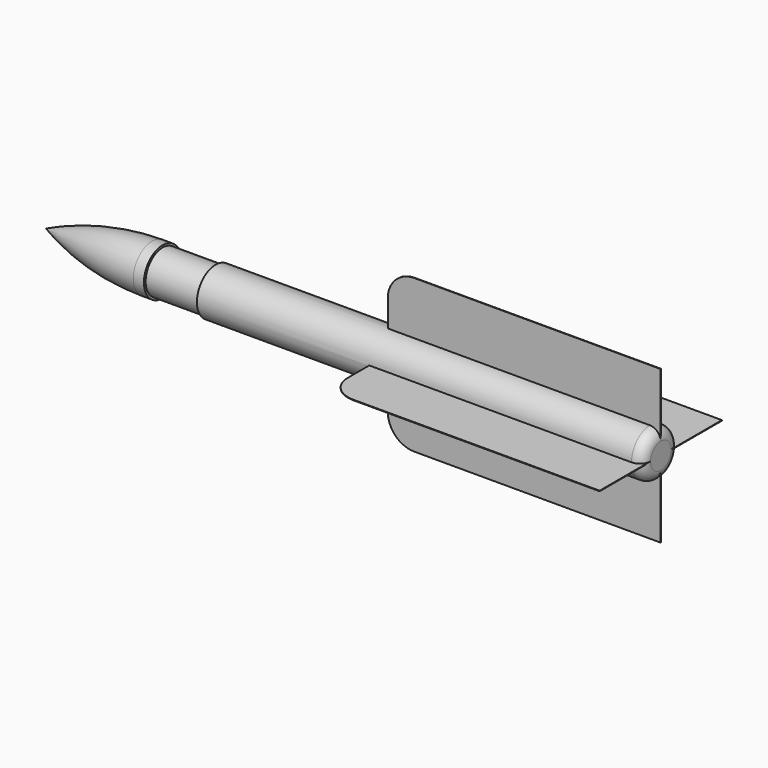
from build123d import *

# Parameters (mm, degrees)
FILLET_R           = 100
SKETCH001_W        = 2574
SKETCH001_H        = 721
PAD_DEPTH          = 2.5
POLARPATTERN_COUNT = 4
FILLET001_R        = 250
SKETCH002_W        = 500
SKETCH002_H        = 20


with BuildPart() as part:
    # Sketch → Revolution (revolve)
    with BuildSketch(Plane.XY):
        with BuildLine():
            Line((-2400, 221), (2400, 221))
            Line((2400, 221), (2400, 0))
            Line((2400, 0), (-2400, 0))
            Line((-3400, 0), (-2400, 0))
            ThreePointArc((-2400, 221), (-2912.064693, 165.091372), (-3400, 0))
        make_face()
    revolve(axis=Axis((0, 0, 0), (1, 0, 0)))

    # Fillet
    fillet_edges = [part.edges().sort_by_distance(p)[0] for p in [
        (2400, -221, 0),
    ]]
    fillet(fillet_edges, radius=FILLET_R)

    # Sketch001 → Pad (new body, symmetric)
    with BuildSketch(Plane.XY):
        with Locations((1113, 360.5)):
            Rectangle(SKETCH001_W, SKETCH001_H)
    pad = extrude(amount=PAD_DEPTH, both=True)

    # PolarPattern: Pad ×4 about axis
    polarpattern_axis = Axis((0, 0, 0), (1, 0, 0))
    for i in range(1, POLARPATTERN_COUNT):
        add(pad.rotate(polarpattern_axis, i * 360 / POLARPATTERN_COUNT))

    # Fillet001
    fillet001_edges = [part.edges().sort_by_distance(p)[0] for p in [
        (-174, 0, 721),
        (-174, 721, 0),
        (-174, -721, 0),
        (-174, 0, -721),
    ]]
    fillet(fillet001_edges, radius=FILLET001_R)

    # Sketch002 → Groove (revolve, cut)
    with BuildSketch(Plane.XY):
        with Locations((-2050, 211)):
            Rectangle(SKETCH002_W, SKETCH002_H)
    revolve(axis=Axis((0, 0, 0), (1, 0, 0)), mode=Mode.SUBTRACT)


solid = part.part
